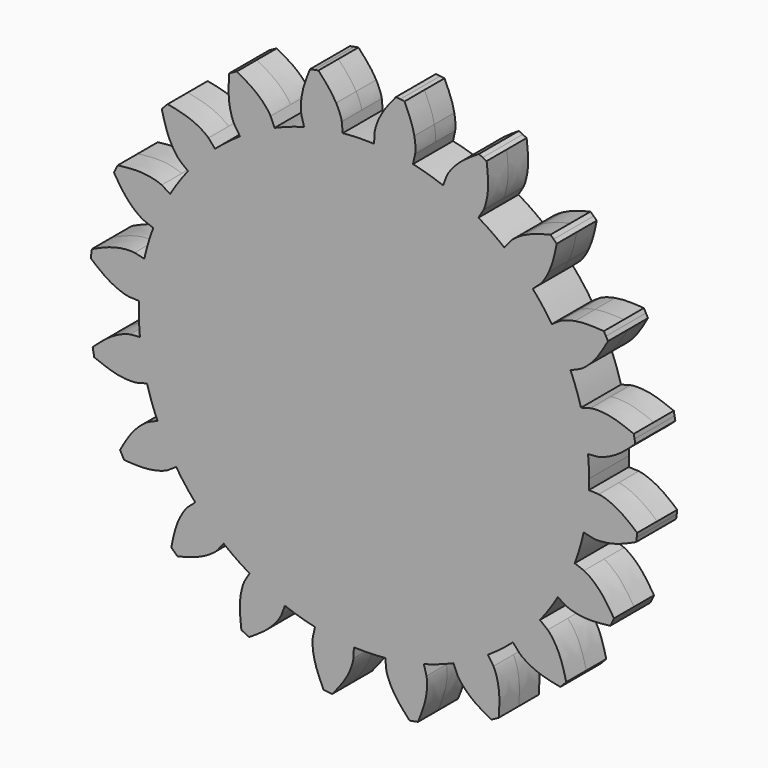
from build123d import *

# Parameters (mm, degrees)
F1_DEPTH = 10


with BuildPart() as f1:
    # F0 (on Front) → F1 (new body, symmetric)
    with BuildSketch(Plane.XZ):
        with BuildLine():
            add(Edge.make_bspline(
                [(-11.1278407355, 99.3789274488), (-11.7141664788, 100.4531105784), (-13.5992322411, 103.4410060225), (-16.4272920736, 106.5270198577), (-18.2178666132, 108.4809169212)],
                knots=[0.4572422581, 0.4572422581, 0.4572422581, 0.4572422581, 0.6563551511, 1, 1, 1, 1], degree=3))
            ThreePointArc((-18.2178666132, 108.4809169212), (-19.0637160642, 108.3354730909), (-19.9084049677, 108.1834340906))
            Line((-19.9084049677, 108.1834340906), (-18.0985499707, 98.348576446))
            ThreePointArc((-18.0985499707, 98.348576446), (-14.6222735629, 98.9251694263), (-11.1278407355, 99.3789274488))
        make_face()
        with BuildLine():
            Line((-18.0985499707, 98.348576446), (-19.9084049677, 108.1834340906))
            ThreePointArc((-19.9084049677, 108.1834340906), (-20.7518819015, 108.0248091762), (-21.5940955171, 107.8596080041))
            add(Edge.make_bspline(
                [(-24.9793957399, 96.8299010026), (-24.8138831036, 98.0424410272), (-24.115981675, 101.5056659787), (-22.5717925163, 105.3962810883), (-21.5940955171, 107.8596080041)],
                knots=[0.4572422227, 0.4572422227, 0.4572422227, 0.4572422227, 0.6563551511, 1, 1, 1, 1], degree=3))
            ThreePointArc((-24.9793957399, 96.8299010026), (-21.5523535913, 97.6498644367), (-18.0985499707, 98.348576446))
        make_face()
        with BuildLine():
            add(Edge.make_bspline(
                [(-8.8876469141, 93.5480194762), (-8.9454972404, 93.8859186058), (-9.1022296818, 94.8013802616), (-9.9809711856, 97.1473730994), (-10.8519394214, 98.8734600691), (-11.1278407355, 99.3789274488)],
                knots=[0, 0, 0, 0, 0.1341863568, 0.3635477385, 0.4572422581, 0.4572422581, 0.4572422581, 0.4572422581], degree=3))
            ThreePointArc((-11.1278407355, 99.3789274488), (-14.6222735629, 98.9251694263), (-18.0985499707, 98.348576446))
            Line((-18.0985499707, 98.348576446), (-16.2886949736, 88.5137188014))
            ThreePointArc((-16.2886949736, 88.5137188014), (-12.4122775577, 89.1399762499), (-8.512232666, 89.5965506872))
            Line((-8.512232666, 89.5965506872), (-8.8876469141, 93.5480194762))
        make_face()
        with BuildLine():
            Line((-16.2886949736, 88.5137188014), (-18.0985499707, 98.348576446))
            ThreePointArc((-18.0985499707, 98.348576446), (-21.5523535913, 97.6498644367), (-24.9793957399, 96.8299010026))
            add(Edge.make_bspline(
                [(-24.9970666934, 90.5834911688), (-25.0632960636, 90.9198483487), (-25.2427296387, 91.8311324393), (-25.2567136007, 94.3362616783), (-25.0572792868, 96.2593287489), (-24.9793957399, 96.8299010026)],
                knots=[0, 0, 0, 0, 0.1341863568, 0.3635477385, 0.4572422227, 0.4572422227, 0.4572422227, 0.4572422227], degree=3))
            Line((-24.9970666934, 90.5834911688), (-23.941190477, 86.7572440695))
            ThreePointArc((-23.941190477, 86.7572440695), (-20.1341059328, 87.7189704584), (-16.2886949736, 88.5137188014))
        make_face()
        with BuildLine():
            Line((0, 0), (-16.2886949736, 88.5137188014))
            ThreePointArc((-16.2886949736, 88.5137188014), (-20.1341059328, 87.7189704584), (-23.941190477, 86.7572440695))
            ThreePointArc((-23.941190477, 86.7572440695), (-29.9347503583, 84.8758547585), (-35.782471145, 82.5809588147))
            ThreePointArc((-35.782471145, 82.5809588147), (-39.3505449927, 80.9415505706), (-42.8437128415, 79.1480654846))
            Line((-42.8437128415, 79.1480654846), (0, 0))
        make_face()
        with BuildLine():
            ThreePointArc((-8.512232666, 89.5965506872), (-12.4122775577, 89.1399762499), (-16.2886949736, 88.5137188014))
            Line((-16.2886949736, 88.5137188014), (0, 0))
            Line((0, 0), (11.8607738484, 89.2150326106))
            ThreePointArc((11.8607738484, 89.2150326106), (7.9579799536, 89.647479357), (4.0400375916, 89.9092770311))
            ThreePointArc((4.0400375916, 89.9092770311), (-2.2415578595, 89.9720813273), (-8.512232666, 89.5965506872))
        make_face()
        with BuildLine():
            Line((-65.2048895869, 62.0348480611), (0, 0))
            Line((0, 0), (-42.8437128415, 79.1480654846))
            ThreePointArc((-42.8437128415, 79.1480654846), (-46.2553252479, 77.2039175574), (-49.5788880137, 75.1128075852))
            ThreePointArc((-49.5788880137, 75.1128075852), (-54.6977209244, 71.4713881611), (-59.5500720371, 67.4817673181))
            ThreePointArc((-59.5500720371, 67.4817673181), (-62.4369069125, 64.8200019686), (-65.2048895869, 62.0348480611))
        make_face()
        with BuildLine():
            Line((-81.1833574302, 38.8492274872), (0, 0))
            Line((0, 0), (-65.2048895869, 62.0348480611))
            ThreePointArc((-65.2048895869, 62.0348480611), (-67.8487510479, 59.1316072945), (-70.3634585551, 56.1158061527))
            ThreePointArc((-70.3634585551, 56.1158061527), (-74.106497465, 51.07080412), (-77.4884969685, 45.7769902633))
            ThreePointArc((-77.4884969685, 45.7769902633), (-79.4115093601, 42.3534199463), (-81.1833574302, 38.8492274872))
        make_face()
        with BuildLine():
            Line((-89.2150326106, 11.8607738484), (0, 0))
            Line((0, 0), (-81.1833574302, 38.8492274872))
            ThreePointArc((-81.1833574302, 38.8492274872), (-82.8006683653, 35.2710833156), (-84.2603635221, 31.6257986321))
            ThreePointArc((-84.2603635221, 31.6257986321), (-86.2612137034, 25.6710539405), (-87.8418079225, 19.5912424545))
            ThreePointArc((-87.8418079225, 19.5912424545), (-88.6127599791, 15.7409900861), (-89.2150326106, 11.8607738484))
        make_face()
        with BuildLine():
            Line((-88.5137188014, -16.2886949736), (0, 0))
            Line((0, 0), (-89.2150326106, 11.8607738484))
            ThreePointArc((-89.2150326106, 11.8607738484), (-89.647479357, 7.9579799536), (-89.9092770311, 4.0400375916))
            ThreePointArc((-89.9092770311, 4.0400375916), (-89.9720813273, -2.2415578595), (-89.5965506872, -8.512232666))
            ThreePointArc((-89.5965506872, -8.512232666), (-89.1399762499, -12.4122775577), (-88.5137188014, -16.2886949736))
        make_face()
        with BuildLine():
            Line((-79.1480654846, -42.8437128415), (0, 0))
            Line((0, 0), (-88.5137188014, -16.2886949736))
            ThreePointArc((-88.5137188014, -16.2886949736), (-87.7189704584, -20.1341059328), (-86.7572440695, -23.941190477))
            ThreePointArc((-86.7572440695, -23.941190477), (-84.8758547585, -29.9347503583), (-82.5809588147, -35.782471145))
            ThreePointArc((-82.5809588147, -35.782471145), (-80.9415505706, -39.3505449927), (-79.1480654846, -42.8437128415))
        make_face()
        with BuildLine():
            Line((-62.0348480611, -65.2048895869), (0, 0))
            Line((0, 0), (-79.1480654846, -42.8437128415))
            ThreePointArc((-79.1480654846, -42.8437128415), (-77.2039175574, -46.2553252479), (-75.1128075852, -49.5788880137))
            ThreePointArc((-75.1128075852, -49.5788880137), (-71.4713881611, -54.6977209244), (-67.4817673181, -59.5500720371))
            ThreePointArc((-67.4817673181, -59.5500720371), (-64.8200019686, -62.4369069125), (-62.0348480611, -65.2048895869))
        make_face()
        with BuildLine():
            Line((-38.8492274872, -81.1833574302), (0, 0))
            Line((0, 0), (-62.0348480611, -65.2048895869))
            ThreePointArc((-62.0348480611, -65.2048895869), (-59.1316072945, -67.8487510479), (-56.1158061527, -70.3634585551))
            ThreePointArc((-56.1158061527, -70.3634585551), (-51.07080412, -74.106497465), (-45.7769902633, -77.4884969685))
            ThreePointArc((-45.7769902633, -77.4884969685), (-42.3534199463, -79.4115093601), (-38.8492274872, -81.1833574302))
        make_face()
        with BuildLine():
            Line((-11.8607738484, -89.2150326106), (0, 0))
            Line((0, 0), (-38.8492274872, -81.1833574302))
            ThreePointArc((-38.8492274872, -81.1833574302), (-35.2710833156, -82.8006683653), (-31.6257986321, -84.2603635221))
            ThreePointArc((-31.6257986321, -84.2603635221), (-25.6710539405, -86.2612137034), (-19.5912424545, -87.8418079225))
            ThreePointArc((-19.5912424545, -87.8418079225), (-15.7409900861, -88.6127599791), (-11.8607738484, -89.2150326106))
        make_face()
        with BuildLine():
            Line((16.2886949736, -88.5137188014), (0, 0))
            Line((0, 0), (-11.8607738484, -89.2150326106))
            ThreePointArc((-11.8607738484, -89.2150326106), (-7.9579799536, -89.647479357), (-4.0400375916, -89.9092770311))
            ThreePointArc((-4.0400375916, -89.9092770311), (2.2415578595, -89.9720813273), (8.512232666, -89.5965506872))
            ThreePointArc((8.512232666, -89.5965506872), (12.4122775577, -89.1399762499), (16.2886949736, -88.5137188014))
        make_face()
        with BuildLine():
            Line((42.8437128415, -79.1480654846), (0, 0))
            Line((0, 0), (16.2886949736, -88.5137188014))
            ThreePointArc((16.2886949736, -88.5137188014), (20.1341059328, -87.7189704584), (23.941190477, -86.7572440695))
            ThreePointArc((23.941190477, -86.7572440695), (29.9347503583, -84.8758547585), (35.782471145, -82.5809588147))
            ThreePointArc((35.782471145, -82.5809588147), (39.3505449927, -80.9415505706), (42.8437128415, -79.1480654846))
        make_face()
        with BuildLine():
            Line((65.2048895869, -62.0348480611), (0, 0))
            Line((0, 0), (42.8437128415, -79.1480654846))
            ThreePointArc((42.8437128415, -79.1480654846), (46.2553252479, -77.2039175574), (49.5788880137, -75.1128075852))
            ThreePointArc((49.5788880137, -75.1128075852), (54.6977209244, -71.4713881611), (59.5500720371, -67.4817673181))
            ThreePointArc((59.5500720371, -67.4817673181), (62.4369069125, -64.8200019686), (65.2048895869, -62.0348480611))
        make_face()
        with BuildLine():
            Line((81.1833574302, -38.8492274872), (0, 0))
            Line((0, 0), (65.2048895869, -62.0348480611))
            ThreePointArc((65.2048895869, -62.0348480611), (67.8487510479, -59.1316072945), (70.3634585551, -56.1158061527))
            ThreePointArc((70.3634585551, -56.1158061527), (74.106497465, -51.07080412), (77.4884969685, -45.7769902633))
            ThreePointArc((77.4884969685, -45.7769902633), (79.4115093601, -42.3534199463), (81.1833574302, -38.8492274872))
        make_face()
        with BuildLine():
            Line((89.2150326106, -11.8607738484), (0, 0))
            Line((0, 0), (81.1833574302, -38.8492274872))
            ThreePointArc((81.1833574302, -38.8492274872), (82.8006683653, -35.2710833156), (84.2603635221, -31.6257986321))
            ThreePointArc((84.2603635221, -31.6257986321), (86.2612137034, -25.6710539405), (87.8418079225, -19.5912424545))
            ThreePointArc((87.8418079225, -19.5912424545), (88.6127599791, -15.7409900861), (89.2150326106, -11.8607738484))
        make_face()
        with BuildLine():
            Line((88.5137188014, 16.2886949736), (0, 0))
            Line((0, 0), (89.2150326106, -11.8607738484))
            ThreePointArc((89.2150326106, -11.8607738484), (89.647479357, -7.9579799536), (89.9092770311, -4.0400375916))
            ThreePointArc((89.9092770311, -4.0400375916), (89.9773163992, -2.0205280497), (90, 0))
            ThreePointArc((90, 0), (89.8990810905, 4.260894164), (89.5965506872, 8.512232666))
            ThreePointArc((89.5965506872, 8.512232666), (89.1399762499, 12.4122775577), (88.5137188014, 16.2886949736))
        make_face()
        with BuildLine():
            Line((79.1480654846, 42.8437128415), (0, 0))
            Line((0, 0), (88.5137188014, 16.2886949736))
            ThreePointArc((88.5137188014, 16.2886949736), (87.7189704584, 20.1341059328), (86.7572440695, 23.941190477))
            ThreePointArc((86.7572440695, 23.941190477), (84.8758547585, 29.9347503583), (82.5809588147, 35.782471145))
            ThreePointArc((82.5809588147, 35.782471145), (80.9415505706, 39.3505449927), (79.1480654846, 42.8437128415))
        make_face()
        with BuildLine():
            Line((62.0348480611, 65.2048895869), (0, 0))
            Line((0, 0), (79.1480654846, 42.8437128415))
            ThreePointArc((79.1480654846, 42.8437128415), (77.2039175574, 46.2553252479), (75.1128075852, 49.5788880137))
            ThreePointArc((75.1128075852, 49.5788880137), (71.4713881611, 54.6977209244), (67.4817673181, 59.5500720371))
            ThreePointArc((67.4817673181, 59.5500720371), (64.8200019686, 62.4369069125), (62.0348480611, 65.2048895869))
        make_face()
        with BuildLine():
            Line((38.8492274872, 81.1833574302), (0, 0))
            Line((0, 0), (62.0348480611, 65.2048895869))
            ThreePointArc((62.0348480611, 65.2048895869), (59.1316072945, 67.8487510479), (56.1158061527, 70.3634585551))
            ThreePointArc((56.1158061527, 70.3634585551), (51.07080412, 74.106497465), (45.7769902633, 77.4884969685))
            ThreePointArc((45.7769902633, 77.4884969685), (42.3534199463, 79.4115093601), (38.8492274872, 81.1833574302))
        make_face()
        with BuildLine():
            Line((11.8607738484, 89.2150326106), (0, 0))
            Line((0, 0), (38.8492274872, 81.1833574302))
            ThreePointArc((38.8492274872, 81.1833574302), (35.2710833156, 82.8006683653), (31.6257986321, 84.2603635221))
            ThreePointArc((31.6257986321, 84.2603635221), (25.6710539405, 86.2612137034), (19.5912424545, 87.8418079225))
            ThreePointArc((19.5912424545, 87.8418079225), (15.7409900861, 88.6127599791), (11.8607738484, 89.2150326106))
        make_face()
        with BuildLine():
            Line((4.2182150139, 93.8745379626), (4.0400375916, 89.9092770311))
            ThreePointArc((4.0400375916, 89.9092770311), (7.9579799536, 89.647479357), (11.8607738484, 89.2150326106))
            Line((11.8607738484, 89.2150326106), (13.1786376093, 99.1278140118))
            ThreePointArc((13.1786376093, 99.1278140118), (9.6779614315, 99.5305837052), (6.1652681652, 99.8097667002))
            add(Edge.make_bspline(
                [(4.2182150139, 93.8745379626), (4.2591672247, 94.2148986513), (4.3701180245, 95.1370293479), (5.1309460531, 97.5238703011), (5.9148798756, 99.2911873798), (6.1652681652, 99.8097667002)],
                knots=[0, 0, 0, 0, 0.1341863568, 0.3635477385, 0.4572422581, 0.4572422581, 0.4572422581, 0.4572422581], degree=3))
        make_face()
        with BuildLine():
            ThreePointArc((-42.8437128415, 79.1480654846), (-39.3505449927, 80.9415505706), (-35.782471145, 82.5809588147))
            Line((-35.782471145, 82.5809588147), (-37.3605823204, 86.2230195729))
            add(Edge.make_bspline(
                [(-37.3605823204, 86.2230195729), (-37.5200178237, 86.5265040079), (-37.9519724427, 87.3487267932), (-40.1922800377, 90.1617004652), (-44.2697403172, 93.8200556722), (-48.5419426679, 96.2369039749), (-50.8486676495, 97.5418525468)],
                knots=[0, 0, 0, 0, 0.1341863568, 0.3635477385, 0.6563551511, 1, 1, 1, 1], degree=3))
            ThreePointArc((-50.8486676495, 97.5418525468), (-51.6081736664, 97.1421453892), (-52.3645379174, 96.7365244812))
            Line((-52.3645379174, 96.7365244812), (-42.8437128415, 79.1480654846))
        make_face()
        with BuildLine():
            ThreePointArc((-49.5788880137, 75.1128075852), (-46.2553252479, 77.2039175574), (-42.8437128415, 79.1480654846))
            Line((-42.8437128415, 79.1480654846), (-52.3645379174, 96.7365244812))
            ThreePointArc((-52.3645379174, 96.7365244812), (-53.1177143574, 96.3250145157), (-53.8676571349, 95.9076405444))
            add(Edge.make_bspline(
                [(-51.765461348, 78.425501127), (-51.9323893068, 78.7249298139), (-52.3846430484, 79.5361644623), (-53.5149669164, 82.9499844566), (-54.3486155858, 88.3642503392), (-54.0362923573, 93.2627524412), (-53.8676571349, 95.9076405444)],
                knots=[0, 0, 0, 0, 0.1341863568, 0.3635477385, 0.6563551511, 1, 1, 1, 1], degree=3))
            Line((-51.765461348, 78.425501127), (-49.5788880137, 75.1128075852))
        make_face()
        with BuildLine():
            Line((-79.6948650506, 75.8203698525), (-65.2048895869, 62.0348480611))
            ThreePointArc((-65.2048895869, 62.0348480611), (-62.4369069125, 64.8200019686), (-59.5500720371, 67.4817673181))
            Line((-59.5500720371, 67.4817673181), (-62.1764036228, 70.4579097627))
            add(Edge.make_bspline(
                [(-62.1764036228, 70.4579097627), (-62.421817645, 70.6972723322), (-63.086711714, 71.3457713519), (-66.0866275201, 73.3287751734), (-71.0950166193, 75.5480732117), (-75.9049697022, 76.526449409), (-78.5020468128, 77.0547120311)],
                knots=[0, 0, 0, 0, 0.1341863568, 0.3635477385, 0.6563551511, 1, 1, 1, 1], degree=3))
            ThreePointArc((-78.5020468128, 77.0547120311), (-79.1008636548, 76.4398676678), (-79.6948650506, 75.8203698525))
        make_face()
        with BuildLine():
            ThreePointArc((-70.3634585551, 56.1158061527), (-67.8487510479, 59.1316072945), (-65.2048895869, 62.0348480611))
            Line((-65.2048895869, 62.0348480611), (-79.6948650506, 75.8203698525))
            ThreePointArc((-79.6948650506, 75.8203698525), (-80.2840148391, 75.1962562986), (-80.8682771543, 74.5675650004))
            add(Edge.make_bspline(
                [(-73.4666919747, 58.5906766124), (-73.7179784505, 58.8238666401), (-74.3987826112, 59.4556425468), (-76.5287128854, 62.3530890134), (-78.9946600545, 67.2447502559), (-80.2113434093, 72.0000157855), (-80.8682771543, 74.5675650004)],
                knots=[0, 0, 0, 0, 0.1341863568, 0.3635477385, 0.6563551511, 1, 1, 1, 1], degree=3))
            Line((-73.4666919747, 58.5906766124), (-70.3634585551, 56.1158061527))
        make_face()
        with BuildLine():
            Line((-99.2241035259, 47.482389151), (-81.1833574302, 38.8492274872))
            ThreePointArc((-81.1833574302, 38.8492274872), (-79.4115093601, 42.3534199463), (-77.4884969685, 45.7769902633))
            Line((-77.4884969685, 45.7769902633), (-80.9059653301, 47.7958888358))
            add(Edge.make_bspline(
                [(-80.9059653301, 47.7958888358), (-81.2133350369, 47.9476990638), (-82.0460840918, 48.3589947155), (-85.5119554482, 49.3179184559), (-90.9610173466, 49.8809189708), (-95.837889441, 49.3250527839), (-98.4710986781, 49.0249194301)],
                knots=[0, 0, 0, 0, 0.1341863568, 0.3635477385, 0.6563551511, 1, 1, 1, 1], degree=3))
            ThreePointArc((-98.4710986781, 49.0249194301), (-98.8506099806, 48.2551231111), (-99.2241035259, 47.482389151))
        make_face()
        with BuildLine():
            ThreePointArc((-84.2603635221, 31.6257986321), (-82.8006683653, 35.2710833156), (-81.1833574302, 38.8492274872))
            Line((-81.1833574302, 38.8492274872), (-99.2241035259, 47.482389151))
            ThreePointArc((-99.2241035259, 47.482389151), (-99.5915565767, 46.7067645918), (-99.9529467635, 45.9282966514))
            add(Edge.make_bspline(
                [(-87.9764909183, 33.0205884457), (-88.2875382401, 33.1647135496), (-89.1302509653, 33.555188087), (-92.0512952302, 35.6526387781), (-95.9081568089, 39.5428654958), (-98.5347493032, 43.689415931), (-99.9529467635, 45.9282966514)],
                knots=[0, 0, 0, 0, 0.1341863568, 0.3635477385, 0.6563551511, 1, 1, 1, 1], degree=3))
            Line((-87.9764909183, 33.0205884457), (-84.2603635221, 31.6257986321))
        make_face()
        with BuildLine():
            Line((-109.040595413, 14.4965013703), (-89.2150326106, 11.8607738484))
            ThreePointArc((-89.2150326106, 11.8607738484), (-88.6127599791, 15.7409900861), (-87.8418079225, 19.5912424545))
            Line((-87.8418079225, 19.5912424545), (-91.7158874458, 20.4552732961))
            add(Edge.make_bspline(
                [(-91.7158874458, 20.4552732961), (-92.0551253488, 20.5046709397), (-92.97421411, 20.6385027394), (-96.5667773803, 20.4794802619), (-101.9231199333, 19.3310728402), (-106.3895288195, 17.2953763244), (-108.8011133163, 16.1962261385)],
                knots=[0, 0, 0, 0, 0.1341863568, 0.3635477385, 0.6563551511, 1, 1, 1, 1], degree=3))
            ThreePointArc((-108.8011133163, 16.1962261385), (-108.9241698688, 15.3468308911), (-109.040595413, 14.4965013703))
        make_face()
        with BuildLine():
            ThreePointArc((-89.9092770311, 4.0400375916), (-89.647479357, 7.9579799536), (-89.2150326106, 11.8607738484))
            Line((-89.2150326106, 11.8607738484), (-109.040595413, 14.4965013703))
            ThreePointArc((-109.040595413, 14.4965013703), (-109.1503828614, 13.6452893417), (-109.2535255303, 12.7932466249))
            add(Edge.make_bspline(
                [(-93.8745379626, 4.2182150139), (-94.2148986513, 4.2591672247), (-95.1370293479, 4.3701180245), (-98.5632554389, 5.4622598527), (-103.4334949434, 7.9702495496), (-107.2128874033, 11.1021916431), (-109.2535255303, 12.7932466249)],
                knots=[0, 0, 0, 0, 0.1341863568, 0.3635477385, 0.6563551511, 1, 1, 1, 1], degree=3))
            Line((-93.8745379626, 4.2182150139), (-89.9092770311, 4.0400375916))
        make_face()
        with BuildLine():
            Line((-108.1834340906, -19.9084049677), (-88.5137188014, -16.2886949736))
            ThreePointArc((-88.5137188014, -16.2886949736), (-89.1399762499, -12.4122775577), (-89.5965506872, -8.512232666))
            Line((-89.5965506872, -8.512232666), (-93.5480194762, -8.8876469141))
            add(Edge.make_bspline(
                [(-93.5480194762, -8.8876469141), (-93.8859186058, -8.9454972404), (-94.8013802616, -9.1022296818), (-98.168970322, -10.3636321491), (-102.9082774008, -13.1110333874), (-106.5270198577, -16.4272920736), (-108.4809169212, -18.2178666132)],
                knots=[0, 0, 0, 0, 0.1341863568, 0.3635477385, 0.6563551511, 1, 1, 1, 1], degree=3))
            ThreePointArc((-108.4809169212, -18.2178666132), (-108.3354730909, -19.0637160642), (-108.1834340906, -19.9084049677))
        make_face()
        with BuildLine():
            ThreePointArc((-86.7572440695, -23.941190477), (-87.7189704584, -20.1341059328), (-88.5137188014, -16.2886949736))
            Line((-88.5137188014, -16.2886949736), (-108.1834340906, -19.9084049677))
            ThreePointArc((-108.1834340906, -19.9084049677), (-108.0248091762, -20.7518819015), (-107.8596080041, -21.5940955171))
            add(Edge.make_bspline(
                [(-90.5834911688, -24.9970666934), (-90.9198483487, -25.0632960636), (-91.8311324393, -25.2427296387), (-95.4271574746, -25.2628031249), (-100.8340419294, -24.3825499545), (-105.3962810883, -22.5717925163), (-107.8596080041, -21.5940955171)],
                knots=[0, 0, 0, 0, 0.1341863568, 0.3635477385, 0.6563551511, 1, 1, 1, 1], degree=3))
            Line((-90.5834911688, -24.9970666934), (-86.7572440695, -23.941190477))
        make_face()
        with BuildLine():
            Line((-96.7365244812, -52.3645379174), (-79.1480654846, -42.8437128415))
            ThreePointArc((-79.1480654846, -42.8437128415), (-80.9415505706, -39.3505449927), (-82.5809588147, -35.782471145))
            Line((-82.5809588147, -35.782471145), (-86.2230195729, -37.3605823204))
            add(Edge.make_bspline(
                [(-86.2230195729, -37.3605823204), (-86.5265040079, -37.5200178237), (-87.3487267932, -37.9519724427), (-90.1617004652, -40.1922800377), (-93.8200556722, -44.2697403172), (-96.2369039749, -48.5419426679), (-97.5418525468, -50.8486676495)],
                knots=[0, 0, 0, 0, 0.1341863568, 0.3635477385, 0.6563551511, 1, 1, 1, 1], degree=3))
            ThreePointArc((-97.5418525468, -50.8486676495), (-97.1421453892, -51.6081736664), (-96.7365244812, -52.3645379174))
        make_face()
        with BuildLine():
            ThreePointArc((-75.1128075852, -49.5788880137), (-77.2039175574, -46.2553252479), (-79.1480654846, -42.8437128415))
            Line((-79.1480654846, -42.8437128415), (-96.7365244812, -52.3645379174))
            ThreePointArc((-96.7365244812, -52.3645379174), (-96.3250145157, -53.1177143574), (-95.9076405444, -53.8676571349))
            add(Edge.make_bspline(
                [(-78.425501127, -51.765461348), (-78.7249298139, -51.9323893068), (-79.5361644623, -52.3846430484), (-82.9499844566, -53.5149669164), (-88.3642503392, -54.3486155858), (-93.2627524412, -54.0362923573), (-95.9076405444, -53.8676571349)],
                knots=[0, 0, 0, 0, 0.1341863568, 0.3635477385, 0.6563551511, 1, 1, 1, 1], degree=3))
            Line((-78.425501127, -51.765461348), (-75.1128075852, -49.5788880137))
        make_face()
        with BuildLine():
            Line((-75.8203698525, -79.6948650506), (-62.0348480611, -65.2048895869))
            ThreePointArc((-62.0348480611, -65.2048895869), (-64.8200019686, -62.4369069125), (-67.4817673181, -59.5500720371))
            Line((-67.4817673181, -59.5500720371), (-70.4579097627, -62.1764036228))
            add(Edge.make_bspline(
                [(-70.4579097627, -62.1764036228), (-70.6972723322, -62.421817645), (-71.3457713519, -63.086711714), (-73.3287751734, -66.0866275201), (-75.5480732117, -71.0950166193), (-76.526449409, -75.9049697022), (-77.0547120311, -78.5020468128)],
                knots=[0, 0, 0, 0, 0.1341863568, 0.3635477385, 0.6563551511, 1, 1, 1, 1], degree=3))
            ThreePointArc((-77.0547120311, -78.5020468128), (-76.4398676678, -79.1008636548), (-75.8203698525, -79.6948650506))
        make_face()
        with BuildLine():
            ThreePointArc((-56.1158061527, -70.3634585551), (-59.1316072945, -67.8487510479), (-62.0348480611, -65.2048895869))
            Line((-62.0348480611, -65.2048895869), (-75.8203698525, -79.6948650506))
            ThreePointArc((-75.8203698525, -79.6948650506), (-75.1962562986, -80.2840148391), (-74.5675650004, -80.8682771543))
            add(Edge.make_bspline(
                [(-58.5906766124, -73.4666919747), (-58.8238666401, -73.7179784505), (-59.4556425468, -74.3987826112), (-62.3530890134, -76.5287128854), (-67.2447502559, -78.9946600545), (-72.0000157855, -80.2113434093), (-74.5675650004, -80.8682771543)],
                knots=[0, 0, 0, 0, 0.1341863568, 0.3635477385, 0.6563551511, 1, 1, 1, 1], degree=3))
            Line((-58.5906766124, -73.4666919747), (-56.1158061527, -70.3634585551))
        make_face()
        with BuildLine():
            Line((-47.482389151, -99.2241035259), (-38.8492274872, -81.1833574302))
            ThreePointArc((-38.8492274872, -81.1833574302), (-42.3534199463, -79.4115093601), (-45.7769902633, -77.4884969685))
            Line((-45.7769902633, -77.4884969685), (-47.7958888358, -80.9059653301))
            add(Edge.make_bspline(
                [(-47.7958888358, -80.9059653301), (-47.9476990638, -81.2133350369), (-48.3589947155, -82.0460840918), (-49.3179184559, -85.5119554482), (-49.8809189708, -90.9610173466), (-49.3250527839, -95.837889441), (-49.0249194301, -98.4710986781)],
                knots=[0, 0, 0, 0, 0.1341863568, 0.3635477385, 0.6563551511, 1, 1, 1, 1], degree=3))
            ThreePointArc((-49.0249194301, -98.4710986781), (-48.2551231111, -98.8506099806), (-47.482389151, -99.2241035259))
        make_face()
        with BuildLine():
            ThreePointArc((-31.6257986321, -84.2603635221), (-35.2710833156, -82.8006683653), (-38.8492274872, -81.1833574302))
            Line((-38.8492274872, -81.1833574302), (-47.482389151, -99.2241035259))
            ThreePointArc((-47.482389151, -99.2241035259), (-46.7067645918, -99.5915565767), (-45.9282966514, -99.9529467635))
            add(Edge.make_bspline(
                [(-33.0205884457, -87.9764909183), (-33.1647135496, -88.2875382401), (-33.555188087, -89.1302509653), (-35.6526387781, -92.0512952302), (-39.5428654958, -95.9081568089), (-43.689415931, -98.5347493032), (-45.9282966514, -99.9529467635)],
                knots=[0, 0, 0, 0, 0.1341863568, 0.3635477385, 0.6563551511, 1, 1, 1, 1], degree=3))
            Line((-33.0205884457, -87.9764909183), (-31.6257986321, -84.2603635221))
        make_face()
        with BuildLine():
            Line((-14.4965013703, -109.040595413), (-11.8607738484, -89.2150326106))
            ThreePointArc((-11.8607738484, -89.2150326106), (-15.7409900861, -88.6127599791), (-19.5912424545, -87.8418079225))
            Line((-19.5912424545, -87.8418079225), (-20.4552732961, -91.7158874458))
            add(Edge.make_bspline(
                [(-20.4552732961, -91.7158874458), (-20.5046709397, -92.0551253488), (-20.6385027394, -92.97421411), (-20.4794802619, -96.5667773803), (-19.3310728402, -101.9231199333), (-17.2953763244, -106.3895288195), (-16.1962261385, -108.8011133163)],
                knots=[0, 0, 0, 0, 0.1341863568, 0.3635477385, 0.6563551511, 1, 1, 1, 1], degree=3))
            ThreePointArc((-16.1962261385, -108.8011133163), (-15.3468308911, -108.9241698688), (-14.4965013703, -109.040595413))
        make_face()
        with BuildLine():
            ThreePointArc((-4.0400375916, -89.9092770311), (-7.9579799536, -89.647479357), (-11.8607738484, -89.2150326106))
            Line((-11.8607738484, -89.2150326106), (-14.4965013703, -109.040595413))
            ThreePointArc((-14.4965013703, -109.040595413), (-13.6452893417, -109.1503828614), (-12.7932466249, -109.2535255303))
            add(Edge.make_bspline(
                [(-4.2182150139, -93.8745379626), (-4.2591672247, -94.2148986513), (-4.3701180245, -95.1370293479), (-5.4622598527, -98.5632554389), (-7.9702495496, -103.4334949434), (-11.1021916431, -107.2128874033), (-12.7932466249, -109.2535255303)],
                knots=[0, 0, 0, 0, 0.1341863568, 0.3635477385, 0.6563551511, 1, 1, 1, 1], degree=3))
            Line((-4.2182150139, -93.8745379626), (-4.0400375916, -89.9092770311))
        make_face()
        with BuildLine():
            Line((19.9084049677, -108.1834340906), (16.2886949736, -88.5137188014))
            ThreePointArc((16.2886949736, -88.5137188014), (12.4122775577, -89.1399762499), (8.512232666, -89.5965506872))
            Line((8.512232666, -89.5965506872), (8.8876469141, -93.5480194762))
            add(Edge.make_bspline(
                [(8.8876469141, -93.5480194762), (8.9454972404, -93.8859186057), (9.1022296818, -94.8013802616), (10.3636321491, -98.168970322), (13.1110333874, -102.9082774008), (16.4272920736, -106.5270198577), (18.2178666132, -108.4809169212)],
                knots=[0, 0, 0, 0, 0.1341863568, 0.3635477385, 0.6563551511, 1, 1, 1, 1], degree=3))
            ThreePointArc((18.2178666132, -108.4809169212), (19.0637160642, -108.3354730909), (19.9084049677, -108.1834340906))
        make_face()
        with BuildLine():
            ThreePointArc((23.941190477, -86.7572440695), (20.1341059328, -87.7189704584), (16.2886949736, -88.5137188014))
            Line((16.2886949736, -88.5137188014), (19.9084049677, -108.1834340906))
            ThreePointArc((19.9084049677, -108.1834340906), (20.7518819015, -108.0248091762), (21.5940955171, -107.8596080041))
            add(Edge.make_bspline(
                [(24.9970666934, -90.5834911688), (25.0632960636, -90.9198483487), (25.2427296387, -91.8311324393), (25.2628031249, -95.4271574746), (24.3825499545, -100.8340419294), (22.5717925163, -105.3962810883), (21.5940955171, -107.8596080041)],
                knots=[0, 0, 0, 0, 0.1341863568, 0.3635477385, 0.6563551511, 1, 1, 1, 1], degree=3))
            Line((24.9970666934, -90.5834911688), (23.941190477, -86.7572440695))
        make_face()
        with BuildLine():
            Line((52.3645379174, -96.7365244812), (42.8437128415, -79.1480654846))
            ThreePointArc((42.8437128415, -79.1480654846), (39.3505449927, -80.9415505706), (35.782471145, -82.5809588147))
            Line((35.782471145, -82.5809588147), (37.3605823204, -86.2230195729))
            add(Edge.make_bspline(
                [(37.3605823204, -86.2230195729), (37.5200178237, -86.5265040079), (37.9519724427, -87.3487267932), (40.1922800377, -90.1617004652), (44.2697403172, -93.8200556722), (48.5419426679, -96.2369039749), (50.8486676495, -97.5418525468)],
                knots=[0, 0, 0, 0, 0.1341863568, 0.3635477385, 0.6563551511, 1, 1, 1, 1], degree=3))
            ThreePointArc((50.8486676495, -97.5418525468), (51.6081736664, -97.1421453892), (52.3645379174, -96.7365244812))
        make_face()
        with BuildLine():
            ThreePointArc((49.5788880137, -75.1128075852), (46.2553252479, -77.2039175574), (42.8437128415, -79.1480654846))
            Line((42.8437128415, -79.1480654846), (52.3645379174, -96.7365244812))
            ThreePointArc((52.3645379174, -96.7365244812), (53.1177143574, -96.3250145157), (53.8676571349, -95.9076405444))
            add(Edge.make_bspline(
                [(51.765461348, -78.425501127), (51.9323893068, -78.7249298139), (52.3846430484, -79.5361644623), (53.5149669164, -82.9499844566), (54.3486155858, -88.3642503392), (54.0362923573, -93.2627524412), (53.8676571349, -95.9076405444)],
                knots=[0, 0, 0, 0, 0.1341863568, 0.3635477385, 0.6563551511, 1, 1, 1, 1], degree=3))
            Line((51.765461348, -78.425501127), (49.5788880137, -75.1128075852))
        make_face()
        with BuildLine():
            Line((79.6948650506, -75.8203698525), (65.2048895869, -62.0348480611))
            ThreePointArc((65.2048895869, -62.0348480611), (62.4369069125, -64.8200019686), (59.5500720371, -67.4817673181))
            Line((59.5500720371, -67.4817673181), (62.1764036228, -70.4579097627))
            add(Edge.make_bspline(
                [(62.1764036228, -70.4579097627), (62.421817645, -70.6972723322), (63.086711714, -71.3457713519), (66.0866275201, -73.3287751733), (71.0950166193, -75.5480732117), (75.9049697022, -76.526449409), (78.5020468128, -77.0547120311)],
                knots=[0, 0, 0, 0, 0.1341863568, 0.3635477385, 0.6563551511, 1, 1, 1, 1], degree=3))
            ThreePointArc((78.5020468128, -77.0547120311), (79.1008636548, -76.4398676678), (79.6948650506, -75.8203698525))
        make_face()
        with BuildLine():
            ThreePointArc((70.3634585551, -56.1158061527), (67.8487510479, -59.1316072945), (65.2048895869, -62.0348480611))
            Line((65.2048895869, -62.0348480611), (79.6948650506, -75.8203698525))
            ThreePointArc((79.6948650506, -75.8203698525), (80.2840148391, -75.1962562986), (80.8682771543, -74.5675650004))
            add(Edge.make_bspline(
                [(73.4666919747, -58.5906766124), (73.7179784505, -58.8238666401), (74.3987826112, -59.4556425468), (76.5287128854, -62.3530890134), (78.9946600545, -67.2447502559), (80.2113434093, -72.0000157854), (80.8682771543, -74.5675650004)],
                knots=[0, 0, 0, 0, 0.1341863568, 0.3635477385, 0.6563551511, 1, 1, 1, 1], degree=3))
            Line((73.4666919747, -58.5906766124), (70.3634585551, -56.1158061527))
        make_face()
        with BuildLine():
            Line((99.2241035259, -47.482389151), (81.1833574302, -38.8492274872))
            ThreePointArc((81.1833574302, -38.8492274872), (79.4115093601, -42.3534199463), (77.4884969685, -45.7769902633))
            Line((77.4884969685, -45.7769902633), (80.9059653301, -47.7958888358))
            add(Edge.make_bspline(
                [(80.9059653301, -47.7958888358), (81.2133350369, -47.9476990638), (82.0460840918, -48.3589947155), (85.5119554482, -49.3179184559), (90.9610173466, -49.8809189708), (95.837889441, -49.3250527839), (98.4710986781, -49.0249194301)],
                knots=[0, 0, 0, 0, 0.1341863568, 0.3635477385, 0.6563551511, 1, 1, 1, 1], degree=3))
            ThreePointArc((98.4710986781, -49.0249194301), (98.8506099806, -48.2551231111), (99.2241035259, -47.482389151))
        make_face()
        with BuildLine():
            ThreePointArc((84.2603635221, -31.6257986321), (82.8006683653, -35.2710833156), (81.1833574302, -38.8492274872))
            Line((81.1833574302, -38.8492274872), (99.2241035259, -47.482389151))
            ThreePointArc((99.2241035259, -47.482389151), (99.5915565767, -46.7067645918), (99.9529467635, -45.9282966514))
            add(Edge.make_bspline(
                [(87.9764909183, -33.0205884457), (88.2875382401, -33.1647135496), (89.1302509653, -33.555188087), (92.0512952302, -35.6526387781), (95.9081568089, -39.5428654958), (98.5347493032, -43.689415931), (99.9529467635, -45.9282966514)],
                knots=[0, 0, 0, 0, 0.1341863568, 0.3635477385, 0.6563551511, 1, 1, 1, 1], degree=3))
            Line((87.9764909183, -33.0205884457), (84.2603635221, -31.6257986321))
        make_face()
        with BuildLine():
            Line((109.040595413, -14.4965013703), (89.2150326106, -11.8607738484))
            ThreePointArc((89.2150326106, -11.8607738484), (88.6127599791, -15.7409900861), (87.8418079225, -19.5912424545))
            Line((87.8418079225, -19.5912424545), (91.7158874458, -20.4552732961))
            add(Edge.make_bspline(
                [(91.7158874458, -20.4552732961), (92.0551253488, -20.5046709397), (92.97421411, -20.6385027394), (96.5667773803, -20.4794802619), (101.9231199333, -19.3310728402), (106.3895288195, -17.2953763244), (108.8011133163, -16.1962261385)],
                knots=[0, 0, 0, 0, 0.1341863568, 0.3635477385, 0.6563551511, 1, 1, 1, 1], degree=3))
            ThreePointArc((108.8011133163, -16.1962261385), (108.9241698688, -15.3468308911), (109.040595413, -14.4965013703))
        make_face()
        with BuildLine():
            ThreePointArc((89.9092770311, -4.0400375916), (89.647479357, -7.9579799536), (89.2150326106, -11.8607738484))
            Line((89.2150326106, -11.8607738484), (109.040595413, -14.4965013703))
            ThreePointArc((109.040595413, -14.4965013703), (109.1503828614, -13.6452893417), (109.2535255303, -12.7932466249))
            add(Edge.make_bspline(
                [(93.8745379626, -4.2182150139), (94.2148986513, -4.2591672247), (95.1370293479, -4.3701180245), (98.5632554389, -5.4622598527), (103.4334949434, -7.9702495496), (107.2128874033, -11.1021916431), (109.2535255303, -12.7932466249)],
                knots=[0, 0, 0, 0, 0.1341863568, 0.3635477385, 0.6563551511, 1, 1, 1, 1], degree=3))
            Line((93.8745379626, -4.2182150139), (89.9092770311, -4.0400375916))
        make_face()
        with BuildLine():
            Line((108.1834340906, 19.9084049677), (88.5137188014, 16.2886949736))
            ThreePointArc((88.5137188014, 16.2886949736), (89.1399762499, 12.4122775577), (89.5965506872, 8.512232666))
            Line((89.5965506872, 8.512232666), (93.5480194762, 8.8876469141))
            add(Edge.make_bspline(
                [(93.5480194762, 8.8876469141), (93.8859186058, 8.9454972404), (94.8013802616, 9.1022296818), (98.168970322, 10.3636321491), (102.9082774008, 13.1110333874), (106.5270198577, 16.4272920736), (108.4809169212, 18.2178666132)],
                knots=[0, 0, 0, 0, 0.1341863568, 0.3635477385, 0.6563551511, 1, 1, 1, 1], degree=3))
            ThreePointArc((108.4809169212, 18.2178666132), (108.3354730909, 19.0637160642), (108.1834340906, 19.9084049677))
        make_face()
        with BuildLine():
            ThreePointArc((86.7572440695, 23.941190477), (87.7189704584, 20.1341059328), (88.5137188014, 16.2886949736))
            Line((88.5137188014, 16.2886949736), (108.1834340906, 19.9084049677))
            ThreePointArc((108.1834340906, 19.9084049677), (108.0248091762, 20.7518819015), (107.8596080041, 21.5940955171))
            add(Edge.make_bspline(
                [(90.5834911688, 24.9970666934), (90.9198483487, 25.0632960636), (91.8311324393, 25.2427296387), (95.4271574746, 25.2628031249), (100.8340419294, 24.3825499545), (105.3962810883, 22.5717925163), (107.8596080041, 21.5940955171)],
                knots=[0, 0, 0, 0, 0.1341863568, 0.3635477385, 0.6563551511, 1, 1, 1, 1], degree=3))
            Line((90.5834911688, 24.9970666934), (86.7572440695, 23.941190477))
        make_face()
        with BuildLine():
            Line((87.9422949829, 47.6041253795), (79.1480654846, 42.8437128415))
            ThreePointArc((79.1480654846, 42.8437128415), (80.9415505706, 39.3505449927), (82.5809588147, 35.782471145))
            Line((82.5809588147, 35.782471145), (86.2230195729, 37.3605823204))
            add(Edge.make_bspline(
                [(86.2230195729, 37.3605823204), (86.5265040079, 37.5200178237), (87.3487267932, 37.9519724427), (89.3083525104, 39.5126569316), (90.6808147842, 40.8743871551), (91.0762846346, 41.2929829082)],
                knots=[0, 0, 0, 0, 0.1341863568, 0.3635477385, 0.4572422581, 0.4572422581, 0.4572422581, 0.4572422581], degree=3))
            ThreePointArc((91.0762846346, 41.2929829082), (89.5648959811, 44.4761670792), (87.9422949829, 47.6041253795))
        make_face()
        with BuildLine():
            ThreePointArc((75.1128075852, 49.5788880137), (77.2039175574, 46.2553252479), (79.1480654846, 42.8437128415))
            Line((79.1480654846, 42.8437128415), (87.9422949829, 47.6041253795))
            ThreePointArc((87.9422949829, 47.6041253795), (86.2104963594, 50.6729739338), (84.3716505279, 53.678902065))
            add(Edge.make_bspline(
                [(78.425501127, 51.765461348), (78.7249298139, 51.9323893068), (79.5361644623, 52.3846430484), (81.9143626674, 53.1720700945), (83.8049367284, 53.5766571969), (84.3716505279, 53.678902065)],
                knots=[0, 0, 0, 0, 0.1341863568, 0.3635477385, 0.4572422227, 0.4572422227, 0.4572422227, 0.4572422227], degree=3))
            Line((78.425501127, 51.765461348), (75.1128075852, 49.5788880137))
        make_face()
        with BuildLine():
            Line((68.9276089568, 72.4498773187), (62.0348480611, 65.2048895869))
            ThreePointArc((62.0348480611, 65.2048895869), (64.8200019686, 62.4369069125), (67.4817673181, 59.5500720371))
            Line((67.4817673181, 59.5500720371), (70.4579097627, 62.1764036228))
            add(Edge.make_bspline(
                [(70.4579097627, 62.1764036228), (70.6972723322, 62.421817645), (71.3457713519, 63.086711714), (72.7272080231, 65.1765683548), (73.6116993444, 66.8957647095), (73.8584602354, 67.4160796201)],
                knots=[0, 0, 0, 0, 0.1341863568, 0.3635477385, 0.4572422227, 0.4572422227, 0.4572422227, 0.4572422227], degree=3))
            ThreePointArc((73.8584602354, 67.4160796201), (71.4373863491, 69.9764231827), (68.9276089568, 72.4498773187))
        make_face()
        with BuildLine():
            ThreePointArc((56.1158061527, 70.3634585551), (59.1316072945, 67.8487510479), (62.0348480611, 65.2048895869))
            Line((62.0348480611, 65.2048895869), (68.9276089568, 72.4498773187))
            ThreePointArc((68.9276089568, 72.4498773187), (66.332244523, 74.8333706759), (63.6545156216, 77.1239437612))
            add(Edge.make_bspline(
                [(58.5906766124, 73.4666919747), (58.8238666401, 73.7179784505), (59.4556425468, 74.3987826112), (61.4741152636, 75.8825740106), (63.1471339635, 76.8515788219), (63.6545156216, 77.1239437612)],
                knots=[0, 0, 0, 0, 0.1341863568, 0.3635477385, 0.4572422581, 0.4572422581, 0.4572422581, 0.4572422581], degree=3))
            Line((58.5906766124, 73.4666919747), (56.1158061527, 70.3634585551))
        make_face()
        with BuildLine():
            Line((47.482389151, 99.2241035259), (38.8492274872, 81.1833574302))
            ThreePointArc((38.8492274872, 81.1833574302), (42.3534199463, 79.4115093601), (45.7769902633, 77.4884969685))
            Line((45.7769902633, 77.4884969685), (47.7958888358, 80.9059653301))
            add(Edge.make_bspline(
                [(47.7958888358, 80.9059653301), (47.9476990638, 81.2133350369), (48.3589947155, 82.0460840918), (49.3179184559, 85.5119554482), (49.8809189708, 90.9610173466), (49.3250527839, 95.837889441), (49.0249194301, 98.4710986781)],
                knots=[0, 0, 0, 0, 0.1341863568, 0.3635477385, 0.6563551511, 1, 1, 1, 1], degree=3))
            ThreePointArc((49.0249194301, 98.4710986781), (48.2551231111, 98.8506099806), (47.482389151, 99.2241035259))
        make_face()
        with BuildLine():
            ThreePointArc((31.6257986321, 84.2603635221), (35.2710833156, 82.8006683653), (38.8492274872, 81.1833574302))
            Line((38.8492274872, 81.1833574302), (47.482389151, 99.2241035259))
            ThreePointArc((47.482389151, 99.2241035259), (46.7067645918, 99.5915565767), (45.9282966514, 99.9529467635))
            add(Edge.make_bspline(
                [(33.0205884457, 87.9764909183), (33.1647135496, 88.2875382401), (33.555188087, 89.1302509653), (35.6526387781, 92.0512952302), (39.5428654958, 95.9081568089), (43.689415931, 98.5347493032), (45.9282966514, 99.9529467635)],
                knots=[0, 0, 0, 0, 0.1341863568, 0.3635477385, 0.6563551511, 1, 1, 1, 1], degree=3))
            Line((33.0205884457, 87.9764909183), (31.6257986321, 84.2603635221))
        make_face()
        with BuildLine():
            Line((13.1786376093, 99.1278140118), (11.8607738484, 89.2150326106))
            ThreePointArc((11.8607738484, 89.2150326106), (15.7409900861, 88.6127599791), (19.5912424545, 87.8418079225))
            Line((19.5912424545, 87.8418079225), (20.4552732961, 91.7158874458))
            add(Edge.make_bspline(
                [(20.4552732961, 91.7158874458), (20.5046709397, 92.0551253488), (20.6385027394, 92.97421411), (20.5277215701, 95.4769317504), (20.2327718174, 97.3876817725), (20.1265721408, 97.9536677902)],
                knots=[0, 0, 0, 0, 0.1341863568, 0.3635477385, 0.4572422227, 0.4572422227, 0.4572422227, 0.4572422227], degree=3))
            ThreePointArc((20.1265721408, 97.9536677902), (16.6629500351, 98.6019577187), (13.1786376093, 99.1278140118))
        make_face()
        with BuildLine():
            ThreePointArc((84.3716505279, 53.678902065), (86.2104963594, 50.6729739338), (87.9422949829, 47.6041253795))
            Line((87.9422949829, 47.6041253795), (96.7365244812, 52.3645379174))
            ThreePointArc((96.7365244812, 52.3645379174), (96.3250145157, 53.1177143574), (95.9076405444, 53.8676571349))
            add(Edge.make_bspline(
                [(84.3716505279, 53.678902065), (85.575990837, 53.8961856677), (89.0853768963, 54.3026373316), (93.2627524412, 54.0362923573), (95.9076405444, 53.8676571349)],
                knots=[0.4572422227, 0.4572422227, 0.4572422227, 0.4572422227, 0.6563551511, 1, 1, 1, 1], degree=3))
        make_face()
        with BuildLine():
            Line((96.7365244812, 52.3645379174), (87.9422949829, 47.6041253795))
            ThreePointArc((87.9422949829, 47.6041253795), (89.5648959811, 44.4761670792), (91.0762846346, 41.2929829082))
            add(Edge.make_bspline(
                [(91.0762846346, 41.2929829082), (91.9167088808, 42.1825526692), (94.1758489569, 44.8986672157), (96.2369039749, 48.5419426679), (97.5418525468, 50.8486676495)],
                knots=[0.4572422581, 0.4572422581, 0.4572422581, 0.4572422581, 0.6563551511, 1, 1, 1, 1], degree=3))
            ThreePointArc((97.5418525468, 50.8486676495), (97.1421453892, 51.6081736664), (96.7365244812, 52.3645379174))
        make_face()
        with BuildLine():
            ThreePointArc((63.6545156216, 77.1239437612), (66.332244523, 74.8333706759), (68.9276089568, 72.4498773187))
            Line((68.9276089568, 72.4498773187), (75.8203698525, 79.6948650506))
            ThreePointArc((75.8203698525, 79.6948650506), (75.1962562986, 80.2840148391), (74.5675650004, 80.8682771543))
            add(Edge.make_bspline(
                [(63.6545156216, 77.1239437612), (64.7327668388, 77.7027542534), (67.944790693, 79.1737725651), (72.0000157854, 80.2113434093), (74.5675650004, 80.8682771543)],
                knots=[0.4572422581, 0.4572422581, 0.4572422581, 0.4572422581, 0.6563551511, 1, 1, 1, 1], degree=3))
        make_face()
        with BuildLine():
            Line((75.8203698525, 79.6948650506), (68.9276089568, 72.4498773187))
            ThreePointArc((68.9276089568, 72.4498773187), (71.4373863491, 69.9764231827), (73.8584602354, 67.4160796201))
            add(Edge.make_bspline(
                [(73.8584602354, 67.4160796201), (74.3828591261, 68.521816274), (75.6921035794, 71.8031075488), (76.526449409, 75.9049697022), (77.0547120311, 78.5020468128)],
                knots=[0.4572422227, 0.4572422227, 0.4572422227, 0.4572422227, 0.6563551511, 1, 1, 1, 1], degree=3))
            ThreePointArc((77.0547120311, 78.5020468128), (76.4398676678, 79.1008636548), (75.8203698525, 79.6948650506))
        make_face()
        with BuildLine():
            ThreePointArc((6.1652681652, 99.8097667002), (9.6779614315, 99.5305837052), (13.1786376093, 99.1278140118))
            Line((13.1786376093, 99.1278140118), (14.4965013703, 109.040595413))
            ThreePointArc((14.4965013703, 109.040595413), (13.6452893417, 109.1503828614), (12.7932466249, 109.2535255303))
            add(Edge.make_bspline(
                [(6.1652681652, 99.8097667002), (6.6973754529, 100.9118143887), (8.4313144678, 103.9898734534), (11.1021916431, 107.2128874033), (12.7932466249, 109.2535255303)],
                knots=[0.4572422581, 0.4572422581, 0.4572422581, 0.4572422581, 0.6563551511, 1, 1, 1, 1], degree=3))
        make_face()
        with BuildLine():
            Line((14.4965013703, 109.040595413), (13.1786376093, 99.1278140118))
            ThreePointArc((13.1786376093, 99.1278140118), (16.6629500351, 98.6019577187), (20.1265721408, 97.9536677902))
            add(Edge.make_bspline(
                [(20.1265721408, 97.9536677902), (19.9008840571, 99.1564614688), (19.0313904497, 102.5806364549), (17.2953763244, 106.3895288195), (16.1962261385, 108.8011133163)],
                knots=[0.4572422227, 0.4572422227, 0.4572422227, 0.4572422227, 0.6563551511, 1, 1, 1, 1], degree=3))
            ThreePointArc((16.1962261385, 108.8011133163), (15.3468308911, 108.9241698688), (14.4965013703, 109.040595413))
        make_face()
    extrude(amount=F1_DEPTH, both=True)


solid = f1.part
